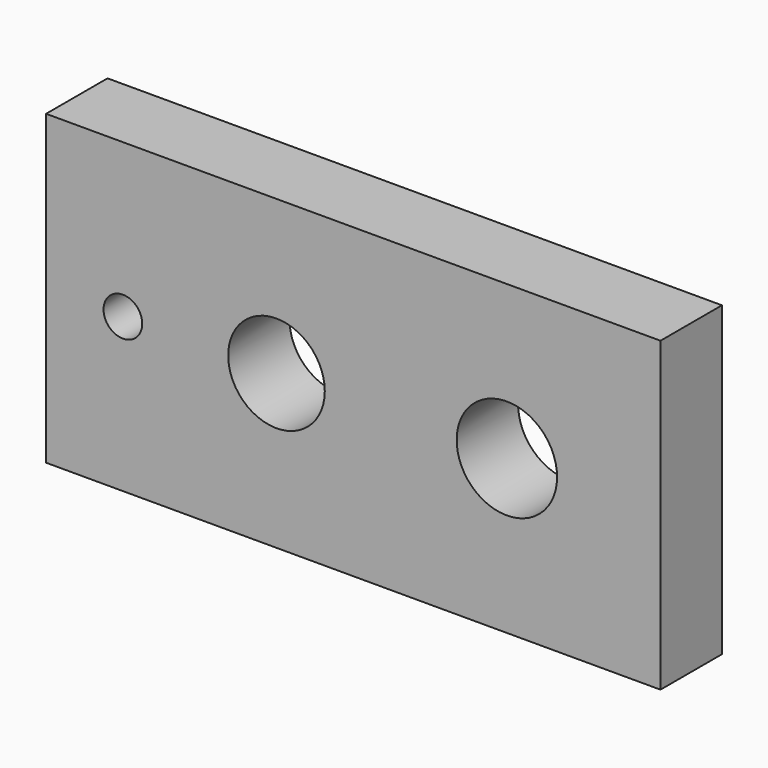
from build123d import *

# Parameters (mm, degrees)
F0_W     = 200
F0_H     = 100
F0_R     = 6.300233
F0_R_2   = 15.728228
F0_R_3   = 16.345491
F1_DEPTH = 25


with BuildPart() as f1:
    # F0 (on Front) → F1 (new body)
    with BuildSketch(Plane.XZ):
        Rectangle(F0_W, F0_H)
        with Locations((-75, 0)):
            Circle(F0_R, mode=Mode.SUBTRACT)
        with Locations((-25, 0)):
            Circle(F0_R_2, mode=Mode.SUBTRACT)
        with Locations((50, 0)):
            Circle(F0_R_3, mode=Mode.SUBTRACT)
    extrude(amount=F1_DEPTH)


solid = f1.part
